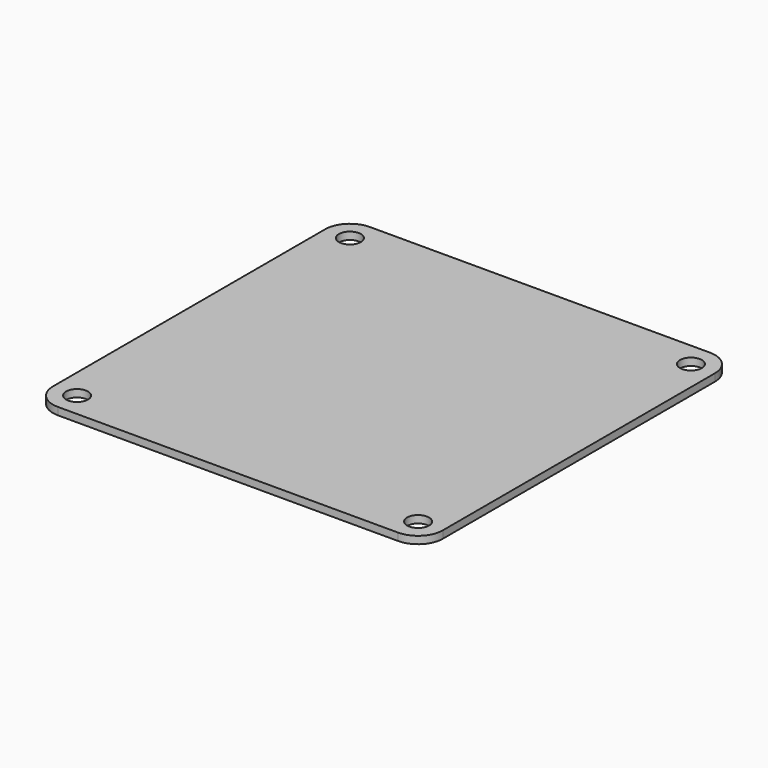
from build123d import *

# Parameters (mm, degrees)
F0_W     = 80
F0_H     = 80
F0_R     = 2.25
F1_DEPTH = 0.762
F2_R     = 5.08


with BuildPart() as f1:
    # F0 (on Top) → F1 (new body, symmetric)
    with BuildSketch(Plane.XY):
        Rectangle(F0_W, F0_H)
        with Locations((-35, -35)):
            Circle(F0_R, mode=Mode.SUBTRACT)
        with Locations((35, -35)):
            Circle(F0_R, mode=Mode.SUBTRACT)
        with Locations((-35, 35)):
            Circle(F0_R, mode=Mode.SUBTRACT)
        with Locations((35, 35)):
            Circle(F0_R, mode=Mode.SUBTRACT)
    extrude(amount=F1_DEPTH, both=True)

    # F2
    f2_edges = [f1.edges().sort_by_distance(p)[0] for p in [
        (-40, -40, 0),
        (-40, 40, 0),
        (40, 40, 0),
        (40, -40, 0),
    ]]
    fillet(f2_edges, radius=F2_R)


solid = f1.part
